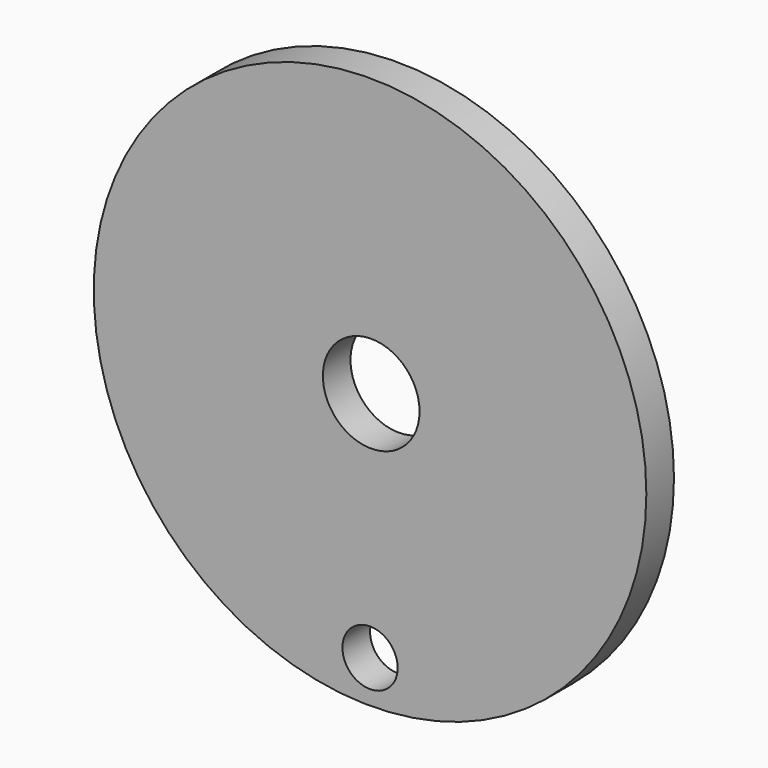
from build123d import *

# Parameters (mm, degrees)
F0_R     = 50.8
F0_R_2   = 5.08
F0_R_3   = 8.89
F1_DEPTH = 6.35


with BuildPart() as f1:
    # F0 (on Front) → F1 (new body)
    with BuildSketch(Plane.XZ):
        Circle(F0_R)
        with Locations((0, -43.028843)):
            Circle(F0_R_2, mode=Mode.SUBTRACT)
        with Locations((0.213933, -0.213932)):
            Circle(F0_R_3, mode=Mode.SUBTRACT)
    extrude(amount=F1_DEPTH)


solid = f1.part
